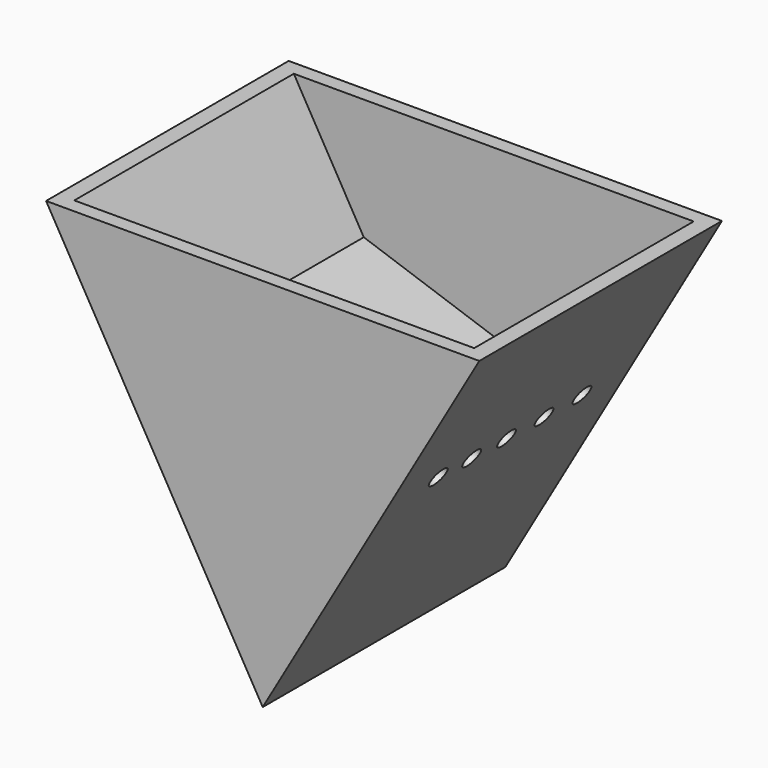
from build123d import *

# Parameters (mm, degrees)
F1_DEPTH = 105
F2_T     = -5
F4_DEPTH = 95
F6_D     = 7


with BuildPart() as f1:
    # F0 (on Front) → F1 (new body)
    with BuildSketch(Plane.XZ):
        Polygon((74.57273, 75.522542), (-75.42727, 75.522542), (-0.42727, -54.381269), align=None)
    extrude(amount=F1_DEPTH)

    # F2
    f2_openings = [f1.faces().sort_by_distance(p)[0] for p in [
        (-0.42727, -52.5, 75.522542),
    ]]
    offset(amount=F2_T, openings=f2_openings)

    # F3 (on face) → F4 (join)
    with BuildSketch(Plane.XZ.offset(5)):
        Polygon((29.57273, 7.580256), (-45.42727, 33.561018), (-0.42727, -44.381269), align=None)
    extrude(amount=F4_DEPTH)

    # F6 (through all)
    with Locations(Plane(origin=(18.897201, 0, -10.910304), x_dir=(0, -1, 0), z_dir=(-0.866025, 0, 0.5))):
        with Locations((83.523616, 39.900303), (20.983379, 39.36794), (37.380986, 39.312027), (53.739835, 39.52726), (68.919398, 39.673682)):
            Hole(F6_D / 2)


solid = f1.part
